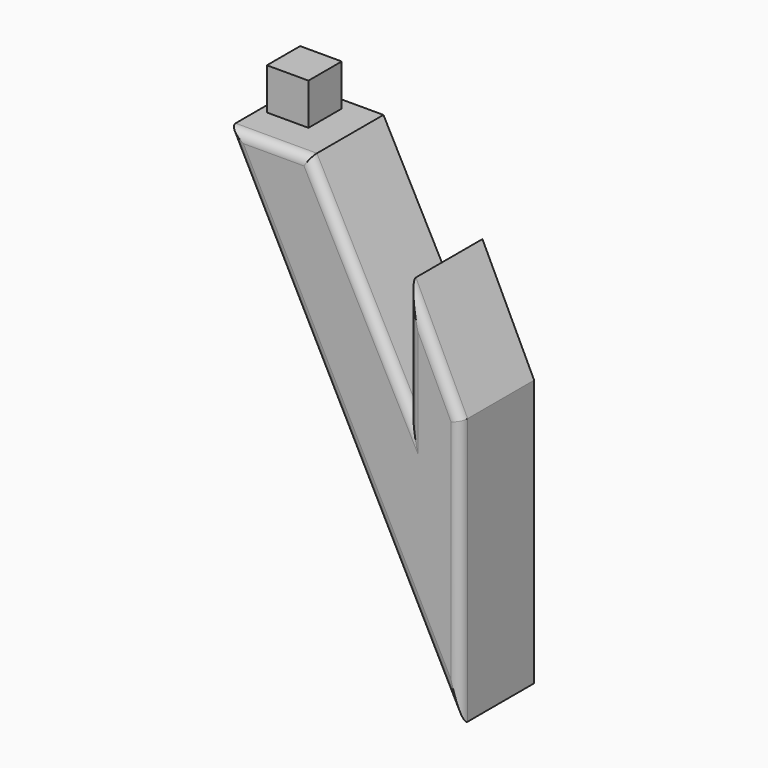
from build123d import *

# Parameters (mm, degrees)
F1_DEPTH = 10
F2_R     = 1
F3_W     = 4.5
F3_H     = 4.5
F4_DEPTH = 4.5


with BuildPart() as f1:
    # F0 (on Front) → F1 (new body)
    with BuildSketch(Plane.XZ):
        Polygon((10.715883, -20.351163), (0, 0), (-8.806125, 0), (16.310085, -48.875057), (16.310085, -19.975057), (10.715883, -8.351163), align=None)
    extrude(amount=F1_DEPTH)

    # F2
    f2_edges = [f1.edges().sort_by_distance(p)[0] for p in [
        (13.512984, -10, -14.16311),
        (3.75198, -10, -24.437528),
        (5.357942, -10, -10.175582),
        (10.715883, -10, -14.351163),
        (16.310085, -10, -34.425057),
        (-4.403063, -10, 0),
    ]]
    fillet(f2_edges, radius=F2_R)

    # F3 (on face) → F4 (join)
    with BuildSketch(Plane.XY):
        with Locations((-5.718835, -3.562355)):
            Rectangle(F3_W, F3_H)
    extrude(amount=F4_DEPTH)


solid = f1.part
